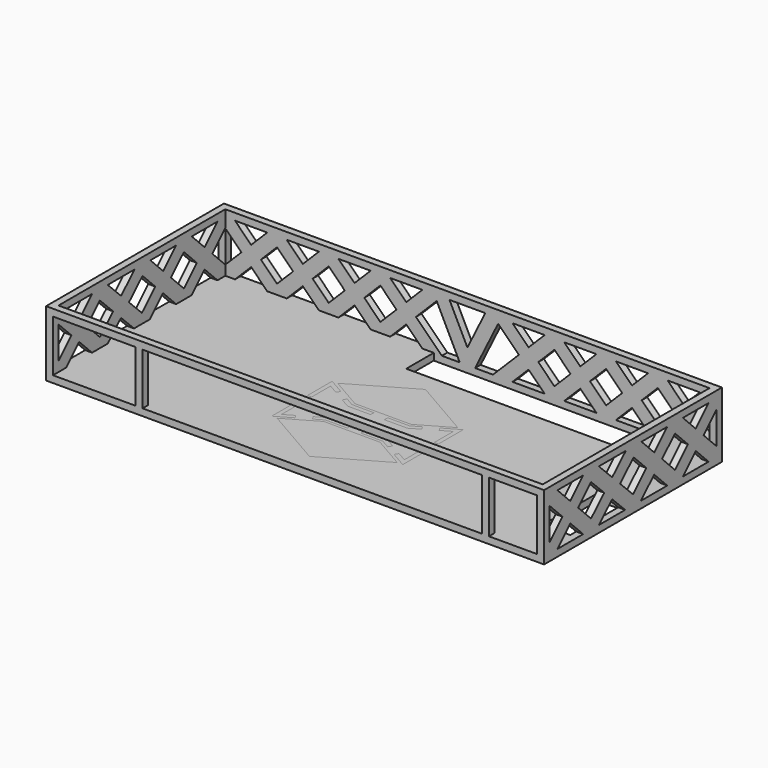
from build123d import *

# Parameters (mm, degrees)
F0_W      = 144.5
F0_H      = 64.5
F1_DEPTH  = 2
F2_W      = 144.5
F2_H      = 64.5
F2_W_2    = 140.5
F2_H_2    = 60.5
F3_DEPTH  = 17
F4_W      = 24
F4_H      = 15
F4_W_2    = 14
F4_W_3    = 98.5
F5_DEPTH  = 25
F6_W      = 60
F6_H      = 10
F6_W_2    = 8
F6_H_2    = 20
F7_DEPTH  = 25
F9_DEPTH  = 144.501
F11_DEPTH = 25
F13_DEPTH = 1
F15_SCALE = 2
F17_DEPTH = 3
F19_DEPTH = 2
F18_W     = 1.1999995362
F18_H     = 4.0000001362
F18_W_2   = 1.199999375
F18_H_2   = 4.0000000878
F18_W_3   = 4.0000000008
F18_H_3   = 1.1999990848
F22_DEPTH = 2


with BuildPart() as f1:
    # F0 (on Top) → F1 (new body)
    with BuildSketch(Plane.XY):
        Rectangle(F0_W, F0_H)
    extrude(amount=F1_DEPTH)

    # F2 (on face) → F3 (join)
    with BuildSketch(Plane.XY.offset(2)):
        Rectangle(F2_W, F2_H)
        Rectangle(F2_W_2, F2_H_2, mode=Mode.SUBTRACT)
    extrude(amount=F3_DEPTH)

    # F4 (on face) → F5 (cut)
    with BuildSketch(Plane.XZ.offset(32.25)):
        with Locations((-58.25, 9.5)):
            Rectangle(F4_W, F4_H)
        with Locations((63.25, 9.5)):
            Rectangle(F4_W_2, F4_H)
        with Locations((5, 9.5)):
            Rectangle(F4_W_3, F4_H)
    extrude(amount=-F5_DEPTH, mode=Mode.SUBTRACT)

    # F6 (on face) → F7 (cut)
    with BuildSketch(Plane(origin=(0, 0, 0), x_dir=(1, 0, 0), z_dir=(0, 0, -1))):
        with Locations((20.25, -25.25)):
            Rectangle(F6_W, F6_H)
        with Locations((66.25, 10.25)):
            Rectangle(F6_W_2, F6_H_2)
    extrude(amount=-F7_DEPTH, mode=Mode.SUBTRACT)

    # F8 (on face) → F9 (cut, through all)
    with BuildSketch(Plane(origin=(-72.25, 0, 0), x_dir=(0, -1, 0), z_dir=(-1, 0, 0))):
        Polygon((-22.75, 6.6715728753), (-27.4215728753, 2), (-18.0784271247, 2), align=None)
        Polygon((-25.5784271247, 9.5), (-30.25, 14.1715728753), (-30.25, 4.8284271247), align=None)
        Polygon((25.5784271247, 9.5), (30.25, 4.8284271247), (30.25, 14.1715728753), align=None)
        Polygon((27.4215728753, 2), (22.75, 6.6715728753), (18.0784271247, 2), align=None)
        Polygon((-18.0784271247, 17), (-27.4215728753, 17), (-22.75, 12.3284271247), align=None)
        Polygon((-3.0784271247, 17), (-12.3979052532, 17), (-7.6996559488, 12.3787711759), align=None)
        Polygon((12.3979052532, 17), (2.625953948, 17), (7.5516529799, 12.2331944853), align=None)
        Polygon((27.4215728753, 17), (18.0784271247, 17), (22.75, 12.3284271247), align=None)
        Polygon((4.6990807713, 9.4273857555), (-0.2270061897, 14.1945666855), (-4.8478533933, 9.573719482), (0, 4.8053390952), align=None)
        Polygon((19.9215728753, 9.5), (15.2383605801, 14.1832122951), (10.4269354888, 9.450663025), (15.2270061897, 4.8054333145), align=None)
        Polygon((7.5743632802, 6.6448542952), (2.8520947468, 2), (12.374046052, 2), align=None)
        Polygon((-10.5281796646, 9.5502474602), (-15.2383605801, 14.1832122951), (-19.9215728753, 9.5), (-15.25, 4.8284271247), align=None)
        Polygon((-2.8520947468, 2), (-7.6763771091, 6.7451957662), (-12.4215728753, 2), align=None)
    extrude(amount=-F9_DEPTH, mode=Mode.SUBTRACT)

    # F10 (on face) → F11 (cut)
    with BuildSketch(Plane(origin=(0, 32.25, 0), x_dir=(-1, 0, 0), z_dir=(0, 1, 0))):
        Polygon((-62.75, 6.6715728753), (-67.4215728753, 2), (-58.0784271247, 2), align=None)
        Polygon((-65.5784271247, 9.5), (-70.25, 14.1715728753), (-70.25, 4.8284271247), align=None)
        Polygon((62.75, 12.3284271247), (67.4215728753, 17), (58.0784271247, 17), align=None)
        Polygon((65.5784271247, 9.5), (70.25, 4.8284271247), (70.25, 14.1715728753), align=None)
        Polygon((-17.75, 6.6715728753), (-22.4215728753, 2), (-13.0784271247, 2), align=None)
        Polygon((-35.5784271247, 9.5), (-40.25, 14.1715728753), (-44.9215728753, 9.5), (-40.25, 4.8284271247), align=None)
        Polygon((-47.75, 6.6715728753), (-52.4215728753, 2), (-43.0784271247, 2), align=None)
        Polygon((-29.9215728753, 9.5), (-25.25, 4.8284271247), (-20.5784271247, 9.5), (-25.25, 14.1715728753), align=None)
        Polygon((-28.0784271247, 2), (-32.75, 6.6715728753), (-37.4215728753, 2), align=None)
        Polygon((-28.0784271247, 17), (-37.4215728753, 17), (-32.75, 12.3284271247), align=None)
        Polygon((-59.9215728753, 9.5), (-55.25, 4.8284271247), (-50.5784271247, 9.5), (-55.25, 14.1715728753), align=None)
        Polygon((-58.0784271247, 17), (-67.4215728753, 17), (-62.75, 12.3284271247), align=None)
        Polygon((-13.0784271247, 17), (-22.4215728753, 17), (-17.75, 12.3284271247), align=None)
        Polygon((-43.0784271247, 17), (-52.4215728753, 17), (-47.75, 12.3284271247), align=None)
        Polygon((20.5784271247, 9.5), (25.25, 4.8284271247), (29.9215728753, 9.5), (25.25, 14.1715728753), align=None)
        Polygon((32.75, 12.3284271247), (37.4215728753, 17), (28.0784271247, 17), align=None)
        Polygon((50.5784271247, 9.5), (55.25, 4.8284271247), (59.9215728753, 9.5), (55.25, 14.1715728753), align=None)
        Polygon((13.0784271247, 2), (22.4215728753, 2), (17.75, 6.6715728753), align=None)
        Polygon((44.9215728753, 9.5), (40.25, 14.1715728753), (35.5784271247, 9.5), (40.25, 4.8284271247), align=None)
        Polygon((43.0784271247, 2), (52.4215728753, 2), (47.75, 6.6715728753), align=None)
        Polygon((17.75, 12.3284271247), (22.4215728753, 17), (13.0784271247, 17), align=None)
        Polygon((47.75, 12.3284271247), (52.4215728753, 17), (43.0784271247, 17), align=None)
        Polygon((28.0784271247, 2), (37.4215728753, 2), (32.75, 6.6715728753), align=None)
        Polygon((58.0784271247, 2), (67.4215728753, 2), (62.75, 6.6715728753), align=None)
        Polygon((-8.9143836839, 15.5071891914), (-14.9215728753, 9.5), (-7.4215728753, 2), (-2.2314110889, 2), align=None)
        Polygon((7.4215728753, 2), (14.9215728753, 9.5), (8.9143836839, 15.5071891914), (2.2314110889, 2), align=None)
        Polygon((0, 6.5099828428), (5.1901617863, 17), (-5.1901617863, 17), align=None)
    extrude(amount=-F11_DEPTH, mode=Mode.SUBTRACT)


with BuildPart() as f13:
    # F12 (on face) → F13 (new body)
    with BuildSketch(Plane(origin=(0, 0, 0), x_dir=(1, 0, 0), z_dir=(0, 0, -1))):
        Polygon((9.5098589116, 0.5094823004), (9.5098576654, 11.4905178358), (4.179731129, 8.4131683653), (-4.1797301546, 8.4131675528), (-9.5098549353, 11.4905170499), (-9.509855739, 0.509483038), (-4.1797296744, 3.586832236), (4.1797287664, 3.5868322413), align=None)
        Polygon((-4.3404990436, 4.186831777), (-8.9098561218, 1.5487126838), (-8.9098554702, 10.4512873162), (-4.3404995436, 7.813167996), (4.340500525, 7.8131688398), (8.9098582422, 10.451288302), (8.9098592526, 1.548711698), (4.3404980622, 4.1868317825), align=None, mode=Mode.SUBTRACT)
    extrude(amount=F13_DEPTH)


with BuildPart() as f13b:
    # F12 (on face) → F13, piece 2 (new body)
    with BuildSketch(Plane(origin=(0, 0, 0), x_dir=(1, 0, 0), z_dir=(0, 0, -1))):
        Polygon((-4.0725504592, 8.813167641), (4.0725514288, 8.8131684327), (8.7098577157, 11.4905180133), (1.5605e-06, 16.5191537659), (-8.7098537988, 11.490516425), align=None)
    extrude(amount=F13_DEPTH)


with BuildPart() as f13c:
    # F12 (on face) → F13, piece 3 (new body)
    with BuildSketch(Plane(origin=(0, 0, 0), x_dir=(1, 0, 0), z_dir=(0, 0, -1))):
        Polygon((-8.7098571299, 0.509482449), (-8.736e-07, -4.5191554006), (8.7098591635, 0.5094821875), (4.0725492171, 3.1868324774), (-4.0725500763, 3.1868324722), align=None)
    extrude(amount=F13_DEPTH)


with BuildPart() as f13_1:
    # F15: moved
    add(f13.part.scale(F15_SCALE).moved(Location((-1.4757e-06, 6, 1))))


with BuildPart() as f13b_1:
    # F15: moved
    add(f13b.part.scale(F15_SCALE).moved(Location((-1.4757e-06, 6, 1))))


with BuildPart() as f13c_1:
    # F15: moved
    add(f13c.part.scale(F15_SCALE).moved(Location((-1.4757e-06, 6, 1))))


with BuildPart() as f17_tool:
    # F16 (on face) → F17 (new body)
    with BuildSketch(Plane(origin=(0, 0, -1), x_dir=(1, 0, 0), z_dir=(0, 0, -1))):
        Polygon((8.3594607822, 10.8263367307), (-8.3594617849, 10.8263351056), (-19.0197113463, 16.9810340997), (-19.0197129537, -4.9810339241), (-8.3594608245, 1.173664472), (8.359456057, 1.1736644826), (19.0197163476, -4.9810353992), (19.019713855, 16.9810356716), align=None)
        Polygon((8.6809946486, 2.373663565), (-8.6809995628, 2.3736635541), (-17.8197137193, -2.9025746324), (-17.8197124161, 14.9025746324), (-8.6810005629, 9.6263359921), (8.6809995743, 9.6263376797), (17.8197150087, 14.9025766039), (17.8197170295, -2.9025766039), align=None, mode=Mode.SUBTRACT)
        Polygon((1.6454e-06, 27.0383075318), (-17.4197090734, 16.9810328501), (-8.145102394, 11.626335282), (8.1451013819, 11.6263368654), (17.4197139558, 16.9810360265), align=None)
        Polygon((8.1450969586, 0.3736649547), (-8.1451016282, 0.3736649444), (-17.4197157354, -4.9810351019), (-3.2229e-06, -15.0383108012), (17.4197168513, -4.9810356249), align=None)
    extrude(amount=-F17_DEPTH)


with BuildPart() as f1_1:
    add(f1.part)

    # F17: cut by f17_tool
    add(f17_tool.part, mode=Mode.SUBTRACT)


with BuildPart() as f13_2:
    add(f13_1.part)

    # F17: cut by f17_tool
    add(f17_tool.part, mode=Mode.SUBTRACT)


with BuildPart() as f13b_2:
    add(f13b_1.part)

    # F17: cut by f17_tool
    add(f17_tool.part, mode=Mode.SUBTRACT)


with BuildPart() as f13c_2:
    add(f13c_1.part)

    # F17: cut by f17_tool
    add(f17_tool.part, mode=Mode.SUBTRACT)


with BuildPart() as f19:
    # F18 (on face) → F19 (new body)
    with BuildSketch(Plane(origin=(0, 0, 0), x_dir=(1, 0, 0), z_dir=(0, 0, -1))):
        Polygon((1.9999993891, 10.8263361125), (-2.0000006109, 10.8263357237), (-2.0000004943, 9.6263366415), (1.9999995057, 9.6263370303), align=None)
    extrude(amount=-F19_DEPTH)


with BuildPart() as f19b:
    # F18 (on face) → F19, piece 2 (new body)
    with BuildSketch(Plane(origin=(0, 0, 0), x_dir=(1, 0, 0), z_dir=(0, 0, -1))):
        Polygon((14.9824081723, 13.264457015), (14.3824087072, 14.3036867487), (10.9183069457, 12.3036870022), (11.5183064107, 11.2644572686), align=None)
    extrude(amount=-F19_DEPTH)


with BuildPart() as f19c:
    # F18 (on face) → F19, piece 3 (new body)
    with BuildSketch(Plane(origin=(0, 0, 0), x_dir=(1, 0, 0), z_dir=(0, 0, -1))):
        Polygon((-11.5183057551, 11.2644551855), (-10.9183061379, 12.3036848313), (-14.3824076067, 14.3036850849), (-14.9824072239, 13.264455439), align=None)
    extrude(amount=-F19_DEPTH)


with BuildPart() as f19d:
    # F18 (on face) → F19, piece 4 (new body)
    with BuildSketch(Plane(origin=(0, 0, 0), x_dir=(1, 0, 0), z_dir=(0, 0, -1))):
        with Locations((18.4197155602, 6.0000000681)):
            Rectangle(F18_W, F18_H)
    extrude(amount=-F19_DEPTH)


with BuildPart() as f19e:
    # F18 (on face) → F19, piece 5 (new body)
    with BuildSketch(Plane(origin=(0, 0, 0), x_dir=(1, 0, 0), z_dir=(0, 0, -1))):
        with Locations((-18.4197126088, 6.0000000439)):
            Rectangle(F18_W_2, F18_H_2)
    extrude(amount=-F19_DEPTH)


with BuildPart() as f19f:
    # F18 (on face) → F19, piece 6 (new body)
    with BuildSketch(Plane(origin=(0, 0, 0), x_dir=(1, 0, 0), z_dir=(0, 0, -1))):
        Polygon((-14.9824075218, -1.2644554124), (-14.3824080567, -2.3036851461), (-10.9183062952, -0.3036853996), (-11.5183057603, 0.7355443341), align=None)
    extrude(amount=-F19_DEPTH)


with BuildPart() as f19g:
    # F18 (on face) → F19, piece 7 (new body)
    with BuildSketch(Plane(origin=(0, 0, 0), x_dir=(1, 0, 0), z_dir=(0, 0, -1))):
        with Locations((-2.4567e-06, 1.7736640184)):
            Rectangle(F18_W_3, F18_H_3)
    extrude(amount=-F19_DEPTH)


with BuildPart() as f19h:
    # F18 (on face) → F19, piece 8 (new body)
    with BuildSketch(Plane(origin=(0, 0, 0), x_dir=(1, 0, 0), z_dir=(0, 0, -1))):
        Polygon((10.9183055021, -0.3036869092), (14.3824077176, -2.3036858694), (14.9824069468, -1.2644559995), (11.5183047313, 0.7355429606), align=None)
    extrude(amount=-F19_DEPTH)


with BuildPart() as f1_2:
    add(f1_1.part)

    # F20: union F19, F19b, F19c, F19d, F19e, F19f, F19g, F19h
    add(f19.part)
    add(f19b.part)
    add(f19c.part)
    add(f19d.part)
    add(f19e.part)
    add(f19f.part)
    add(f19g.part)
    add(f19h.part)


with BuildPart() as f22:
    # F21 (on face) → F22 (new body)
    with BuildSketch(Plane(origin=(0, 0, 0), x_dir=(1, 0, 0), z_dir=(0, 0, -1))):
        Polygon((17.4197139558, 16.9810360265), (1.6454e-06, 27.0383075318), (-17.4197090734, 16.9810328501), (-8.145102394, 11.626335282), (8.1451013819, 11.6263368654), align=None)
    extrude(amount=-F22_DEPTH)


with BuildPart() as f22b:
    # F21 (on face) → F22, piece 2 (new body)
    with BuildSketch(Plane(origin=(0, 0, 0), x_dir=(1, 0, 0), z_dir=(0, 0, -1))):
        Polygon((-17.8197124161, 14.9025746324), (-14.9824072239, 13.264455439), (-14.3824076067, 14.3036850849), (-19.0197113463, 16.9810340997), (-19.0197120036, 8.0000000878), (-17.8197129213, 8), align=None)
    extrude(amount=-F22_DEPTH)


with BuildPart() as f22c:
    # F21 (on face) → F22, piece 3 (new body)
    with BuildSketch(Plane(origin=(0, 0, 0), x_dir=(1, 0, 0), z_dir=(0, 0, -1))):
        Polygon((-2.0000024563, 1.173664476), (-2.0000024571, 2.3736635583), (-8.6809995628, 2.3736635541), (-11.5183057603, 0.7355443341), (-10.9183062952, -0.3036853996), (-8.3594608245, 1.173664472), align=None)
    extrude(amount=-F22_DEPTH)


with BuildPart() as f22d:
    # F21 (on face) → F22, piece 4 (new body)
    with BuildSketch(Plane(origin=(0, 0, 0), x_dir=(1, 0, 0), z_dir=(0, 0, -1))):
        Polygon((8.359456057, 1.1736644826), (10.9183055021, -0.3036869092), (11.5183047313, 0.7355429606), (8.6809946486, 2.373663565), (1.9999975429, 2.3736635608), (1.9999975437, 1.1736644786), align=None)
    extrude(amount=-F22_DEPTH)


with BuildPart() as f22e:
    # F21 (on face) → F22, piece 5 (new body)
    with BuildSketch(Plane(origin=(0, 0, 0), x_dir=(1, 0, 0), z_dir=(0, 0, -1))):
        Polygon((17.8197162461, 4), (17.8197170295, -2.9025766039), (14.9824069468, -1.2644559995), (14.3824077176, -2.3036858694), (19.0197163476, -4.9810353992), (19.0197153283, 4.0000001362), align=None)
    extrude(amount=-F22_DEPTH)


with BuildPart() as f22f:
    # F21 (on face) → F22, piece 6 (new body)
    with BuildSketch(Plane(origin=(0, 0, 0), x_dir=(1, 0, 0), z_dir=(0, 0, -1))):
        Polygon((1.9999993891, 10.8263361125), (1.9999995057, 9.6263370303), (8.6809995743, 9.6263376797), (11.5183064107, 11.2644572686), (10.9183069457, 12.3036870022), (8.3594607822, 10.8263367307), align=None)
    extrude(amount=-F22_DEPTH)


with BuildPart() as f22g:
    # F21 (on face) → F22, piece 7 (new body)
    with BuildSketch(Plane(origin=(0, 0, 0), x_dir=(1, 0, 0), z_dir=(0, 0, -1))):
        Polygon((-11.5183057551, 11.2644551855), (-8.6810005629, 9.6263359921), (-2.0000004943, 9.6263366415), (-2.0000006109, 10.8263357237), (-8.3594617849, 10.8263351056), (-10.9183061379, 12.3036848313), align=None)
    extrude(amount=-F22_DEPTH)


with BuildPart() as f22h:
    # F21 (on face) → F22, piece 8 (new body)
    with BuildSketch(Plane(origin=(0, 0, 0), x_dir=(1, 0, 0), z_dir=(0, 0, -1))):
        Polygon((17.4197168513, -4.9810356249), (8.1450969586, 0.3736649547), (-8.1451016282, 0.3736649444), (-17.4197157354, -4.9810351019), (-3.2229e-06, -15.0383108012), align=None)
    extrude(amount=-F22_DEPTH)


with BuildPart() as f22i:
    # F21 (on face) → F22, piece 9 (new body)
    with BuildSketch(Plane(origin=(0, 0, 0), x_dir=(1, 0, 0), z_dir=(0, 0, -1))):
        Polygon((-14.9824075218, -1.2644554124), (-17.8197137193, -2.9025746324), (-17.8197132141, 4), (-19.0197122963, 4.0000000878), (-19.0197129537, -4.9810339241), (-14.3824080567, -2.3036851461), align=None)
    extrude(amount=-F22_DEPTH)


with BuildPart() as f22j:
    # F21 (on face) → F22, piece 10 (new body)
    with BuildSketch(Plane(origin=(0, 0, 0), x_dir=(1, 0, 0), z_dir=(0, 0, -1))):
        Polygon((17.8197150087, 14.9025766039), (17.8197157921, 8), (19.0197148743, 8.0000001362), (19.019713855, 16.9810356716), (14.3824087072, 14.3036867487), (14.9824081723, 13.264457015), align=None)
    extrude(amount=-F22_DEPTH)


solid = Compound([f1_2.part, f22.part, f22b.part, f22c.part, f22d.part, f22e.part, f22f.part, f22g.part, f22h.part, f22i.part, f22j.part])
